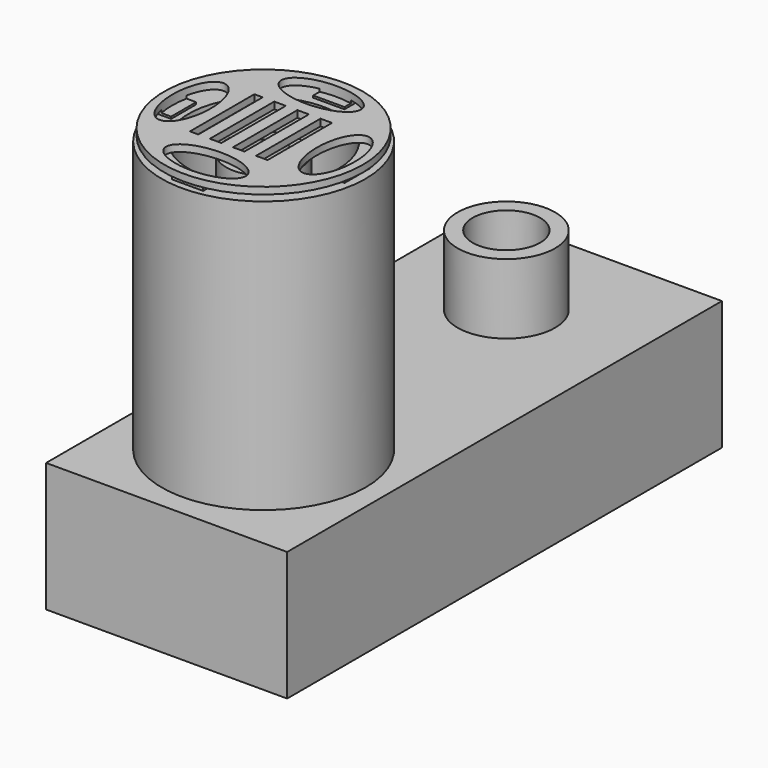
from build123d import *

# Parameters (mm, degrees)
F0_R      = 38.1
F1_DEPTH  = 101.6
F2_W      = 90.1404619217
F2_H      = 203.2
F3_DEPTH  = 48.26
F4_R      = 12.5099698021
F5_DEPTH  = 160.7312
F6_R      = 27.94
F7_DEPTH  = 108.458
F8_R      = 18.2365050243
F9_DEPTH  = 26.162
F10_R     = 12.6237518191
F11_DEPTH = 45.72
F12_R     = 14.0281495366
F13_DEPTH = 15.748
F14_R     = 13.97
F15_DEPTH = 120.142
F16_R     = 8.89
F17_DEPTH = 120.142
F18_W     = 5.0637945533
F18_H     = 11.6845909506
F18_W_2   = 11.6845909506
F18_H_2   = 5.0637945533
F19_DEPTH = 1.778
F20_R     = 37.1255019624
F21_DEPTH = 2.54
F22_W     = 3.1284717843
F22_H     = 30.1069822162
F22_W_2   = 4.318
F23_DEPTH = 3.556
F25_DEPTH = 20.32


with BuildPart() as f1:
    # F0 (on Top) → F1 (new body)
    with BuildSketch(Plane.XY):
        Circle(F0_R)
    extrude(amount=F1_DEPTH)

    # F2 (on Top) → F3 (join)
    with BuildSketch(Plane.XY):
        with Locations((0.6202310324, 55.4960494101)):
            Rectangle(F2_W, F2_H)
    extrude(amount=-F3_DEPTH)

    # F4 (on face) → F5 (cut)
    with BuildSketch(Plane(origin=(0, 157.0960494101, 0), x_dir=(-1, 0, 0), z_dir=(0, 1, 0))):
        with Locations((0, -25.6510470062)):
            Circle(F4_R)
    extrude(amount=-F5_DEPTH, mode=Mode.SUBTRACT)

    # F6 (on face) → F7 (cut)
    with BuildSketch(Plane.XY.offset(101.6)):
        Circle(F6_R)
    extrude(amount=-F7_DEPTH, mode=Mode.SUBTRACT)

    # F8 (on face) → F9 (join)
    with BuildSketch(Plane.XY):
        with Locations((0, 113.4639524607)):
            Circle(F8_R)
    extrude(amount=F9_DEPTH)

    # F10 (on face) → F11 (cut)
    with BuildSketch(Plane.XY.offset(26.162)):
        with Locations((0, 113.4639524607)):
            Circle(F10_R)
    extrude(amount=-F11_DEPTH, mode=Mode.SUBTRACT)

    # F12 (on face) → F13 (cut)
    with BuildSketch(Plane.XY.offset(-6.858)):
        Circle(F12_R)
    extrude(amount=-F13_DEPTH, mode=Mode.SUBTRACT)

    # F14 (on face) → F15 (join)
    with BuildSketch(Plane.XY.offset(-22.606)):
        Circle(F14_R)
    extrude(amount=F15_DEPTH)

    # F16 (on face) → F17 (cut)
    with BuildSketch(Plane.XY.offset(97.536)):
        Circle(F16_R)
    extrude(amount=-F17_DEPTH, mode=Mode.SUBTRACT)

    # F18 (on face) → F19 (join)
    with BuildSketch(Plane.XY.offset(101.6)):
        with Locations((-32.4271917343, 0)):
            Rectangle(F18_W, F18_H)
        with Locations((0, 33.0237820745)):
            Rectangle(F18_W_2, F18_H_2)
        with Locations((32.4271917343, 0)):
            Rectangle(F18_W, F18_H)
        with Locations((0, -33.0237820745)):
            Rectangle(F18_W_2, F18_H_2)
    extrude(amount=F19_DEPTH)

    # F20 (on face) → F21 (join)
    with BuildSketch(Plane.XY.offset(103.378)):
        Circle(F20_R)
    extrude(amount=F21_DEPTH)

    # F22 (on face) → F23 (cut)
    with BuildSketch(Plane.XY.offset(105.918)):
        with BuildLine():
            add(Edge.make_bspline(
                [(14.8971, 26.9401019624), (14.8971, 39.3024413963), (-7.44855, 33.1212716794), (-29.7942, 26.9401019624), (-7.44855, 20.7589322454), (14.8971, 14.5777625284), (14.8971, 26.9401019624)],
                knots=[0, 0, 0, 2.0943951024, 2.0943951024, 4.1887902048, 4.1887902048, 6.2831853072, 6.2831853072, 6.2831853072], degree=2, weights=[1, 0.5, 1, 0.5, 1, 0.5, 1]))
        make_face()
        with BuildLine():
            add(Edge.make_bspline(
                [(-26.9453637302, -14.8951029405), (-14.5827107147, -14.8951029405), (-20.7640372225, 7.4475514702), (-26.9453637302, 29.790205881), (-33.1266902379, 7.4475514702), (-39.3080167457, -14.8951029405), (-26.9453637302, -14.8951029405)],
                knots=[0, 0, 0, 2.0943951024, 2.0943951024, 4.1887902048, 4.1887902048, 6.2831853072, 6.2831853072, 6.2831853072], degree=2, weights=[1, 0.5, 1, 0.5, 1, 0.5, 1]))
        make_face()
        with Locations((-13.9380269684, 0)):
            Rectangle(F22_W, F22_H)
        with Locations((-5.8967910762, 0)):
            Rectangle(F22_W_2, F22_H)
        with Locations((2.7392089238, 0)):
            Rectangle(F22_W_2, F22_H)
        with Locations((11.3752089238, 0)):
            Rectangle(F22_W_2, F22_H)
        with BuildLine():
            add(Edge.make_bspline(
                [(26.9453637302, -14.8951029405), (39.3080167457, -14.8951029405), (33.1266902379, 7.4475514702), (26.9453637302, 29.790205881), (20.7640372225, 7.4475514702), (14.5827107147, -14.8951029405), (26.9453637302, -14.8951029405)],
                knots=[0, 0, 0, 2.0943951024, 2.0943951024, 4.1887902048, 4.1887902048, 6.2831853072, 6.2831853072, 6.2831853072], degree=2, weights=[1, 0.5, 1, 0.5, 1, 0.5, 1]))
        make_face()
        with BuildLine():
            add(Edge.make_bspline(
                [(14.8971, -26.9401019624), (14.8971, -14.5777625284), (-7.44855, -20.7589322454), (-29.7942, -26.9401019624), (-7.44855, -33.1212716794), (14.8971, -39.3024413963), (14.8971, -26.9401019624)],
                knots=[0, 0, 0, 2.0943951024, 2.0943951024, 4.1887902048, 4.1887902048, 6.2831853072, 6.2831853072, 6.2831853072], degree=2, weights=[1, 0.5, 1, 0.5, 1, 0.5, 1]))
        make_face()
    extrude(amount=-F23_DEPTH, mode=Mode.SUBTRACT)

    # F24 (on face) → F25 (join)
    with BuildSketch(Plane.XY.offset(-19.558)):
        with BuildLine():
            ThreePointArc((-7.62, 123.6239524607), (-8.9802561211, 122.4442085818), (-10.16, 121.0839524607))
            Line((-10.16, 121.0839524607), (-10.16, 105.8439524607))
            ThreePointArc((-10.16, 105.8439524607), (-8.9802561211, 104.4836963396), (-7.62, 103.3039524607))
            Line((-7.62, 103.3039524607), (-7.62, 123.6239524607))
        make_face()
        with BuildLine():
            ThreePointArc((-5.4457855278, 101.9907916065), (-4.2711720999, 101.5037229941), (-3.0537396345, 101.1365571866))
            Line((-3.0537396345, 101.1365571866), (-3.0537396345, 125.7913477348))
            ThreePointArc((-3.0537396345, 125.7913477348), (-4.2711720999, 125.4241819273), (-5.4457855278, 124.9371133148))
            Line((-5.4457855278, 124.9371133148), (-5.4457855278, 101.9907916065))
        make_face()
        with BuildLine():
            ThreePointArc((-0.5395441558, 100.7754185775), (-0.269832989, 100.7668193135), (0, 100.7639524607))
            ThreePointArc((0, 100.7639524607), (1.0012328805, 100.803481193), (1.9962330891, 100.9218213238))
            Line((1.9962330891, 100.9218213238), (1.9962330891, 126.0060835975))
            ThreePointArc((1.9962330891, 126.0060835975), (1.0012328684, 126.1244237293), (-2.43e-08, 126.1639524607))
            ThreePointArc((-2.43e-08, 126.1639524607), (-0.2698330012, 126.1610856076), (-0.5395441558, 126.1524863438))
            Line((-0.5395441558, 126.1524863438), (-0.5395441558, 100.7754185775))
        make_face()
        with BuildLine():
            Line((4.4521610105, 125.3579956058), (4.4521610105, 101.5699093156))
            ThreePointArc((4.4521610105, 101.5699093156), (5.6192485879, 102.074745056), (6.7300024914, 102.6937590332))
            Line((6.7300024914, 102.6937590332), (6.7300024914, 124.2341458882))
            ThreePointArc((6.7300024914, 124.2341458882), (5.6192485879, 124.8531598654), (4.4521610105, 125.3579956058))
        make_face()
        with BuildLine():
            Line((10.3977394991, 106.1716953815), (10.3977394991, 120.7562095399))
            ThreePointArc((10.3977394991, 120.7562095399), (9.616394468, 121.7594305926), (8.7386438727, 122.6794884335))
            Line((8.7386438727, 122.6794884335), (8.7386438727, 104.2484164879))
            ThreePointArc((8.7386438727, 104.2484164879), (9.616394468, 105.1684743288), (10.3977394991, 106.1716953815))
        make_face()
    extrude(amount=F25_DEPTH)


solid = f1.part
